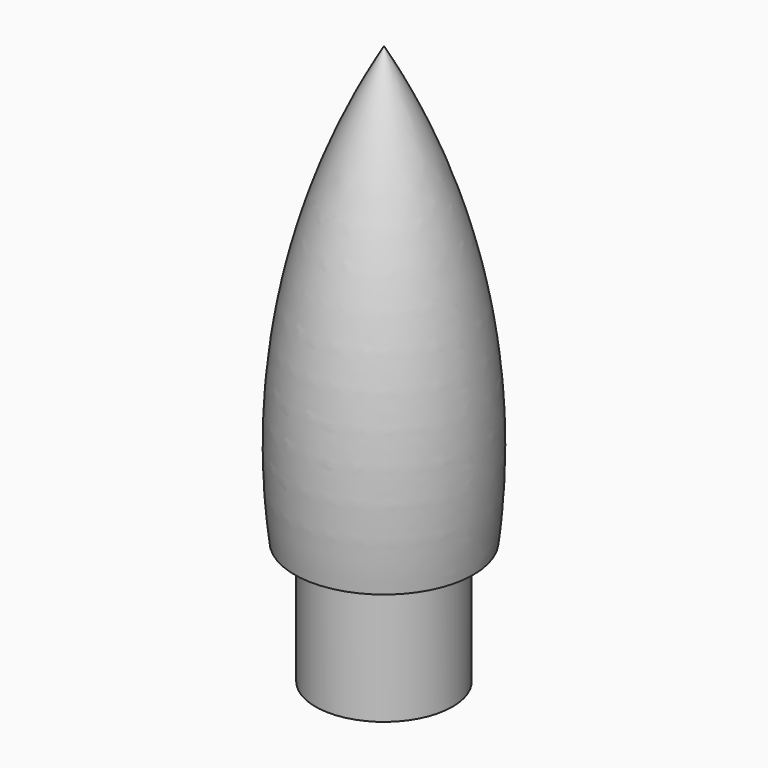
from build123d import *


with BuildPart() as f1:
    # F0 (on Front) → F1 (revolve)
    with BuildSketch(Plane.XZ):
        with BuildLine():
            Line((0, 79.432351), (0, 76.2))
            ThreePointArc((0, 76.2), (10.020485, 48.489444), (11.287063, 19.05))
            Line((11.287063, 19.05), (8.15, 19.05))
            Line((8.15, 19.05), (8.15, 0))
            Line((8.15, 0), (9.7375, 0))
            Line((9.7375, 0), (9.7375, 17.4625))
            Line((9.7375, 17.4625), (12.7, 17.4625))
            ThreePointArc((12.7, 17.4625), (11.438417, 49.490237), (0, 79.432351))
        make_face()
    revolve(axis=Axis((0, 0, 38.1), (0, 0, 1)))


solid = f1.part
